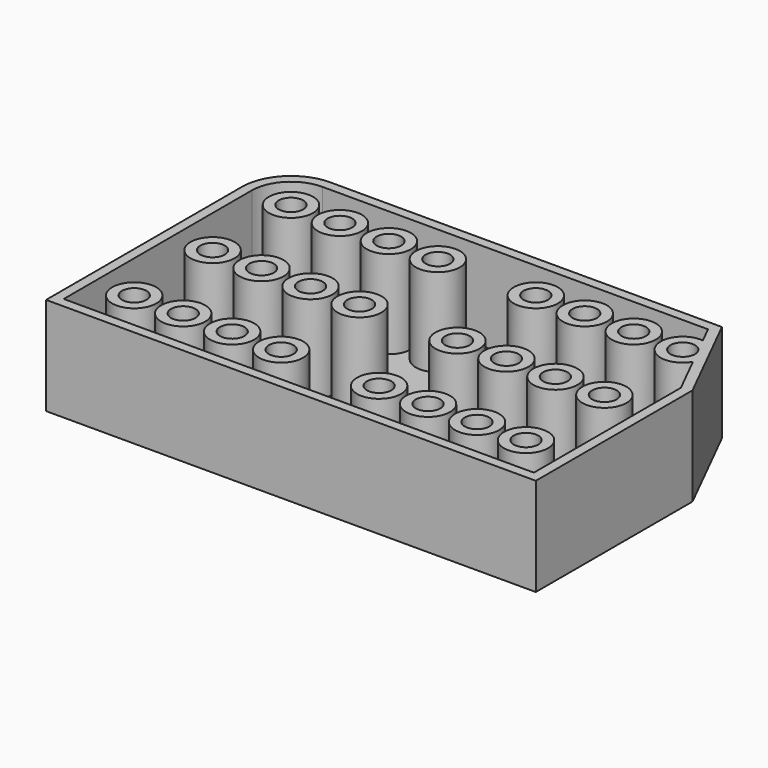
from build123d import *

# Parameters (mm, degrees)
F1_DEPTH = 25.4
F3_R     = 3.175
F4_DEPTH = 25.4
F5_T     = -2.54


with BuildPart() as f1:
    # F0 (on Top) → F1 (new body)
    with BuildSketch(Plane.XY):
        with BuildLine():
            Line((50.8, 38.1), (-50.8, 38.1))
            ThreePointArc((-50.8, 38.1), (-59.780256, 34.380256), (-63.5, 25.4))
            Line((-63.5, 25.4), (-63.5, -38.1))
            Line((-63.5, -38.1), (63.5, -38.1))
            Line((63.5, -38.1), (63.5, 12.7))
            Line((63.5, 12.7), (50.8, 38.1))
        make_face()
    extrude(amount=F1_DEPTH)

    # F3 (on face) → F4 (cut)
    with BuildSketch(Plane.XY.offset(25.4)):
        with Locations((-50.8, 25.4)):
            Circle(F3_R)
        with Locations((-50.8, 0)):
            Circle(F3_R)
        with Locations((-50.8, -25.4)):
            Circle(F3_R)
        with Locations((-38.1, 25.4)):
            Circle(F3_R)
        with Locations((-38.1, 0)):
            Circle(F3_R)
        with Locations((-38.1, -25.4)):
            Circle(F3_R)
        with Locations((-25.4, 25.4)):
            Circle(F3_R)
        with Locations((-25.4, 0)):
            Circle(F3_R)
        with Locations((-25.4, -25.4)):
            Circle(F3_R)
        with Locations((-12.7, 25.4)):
            Circle(F3_R)
        with Locations((-12.7, 0)):
            Circle(F3_R)
        with Locations((-12.7, -25.4)):
            Circle(F3_R)
        with Locations((50.8, 25.4)):
            Circle(F3_R)
        with Locations((38.1, 25.4)):
            Circle(F3_R)
        with Locations((25.4, 25.4)):
            Circle(F3_R)
        with Locations((12.7, 25.4)):
            Circle(F3_R)
        with Locations((12.7, 0)):
            Circle(F3_R)
        with Locations((25.4, 0)):
            Circle(F3_R)
        with Locations((38.1, 0)):
            Circle(F3_R)
        with Locations((50.8, -25.4)):
            Circle(F3_R)
        with Locations((38.1, -25.4)):
            Circle(F3_R)
        with Locations((25.4, -25.4)):
            Circle(F3_R)
        with Locations((12.7, -25.4)):
            Circle(F3_R)
        with Locations((50.8, 0)):
            Circle(F3_R)
    extrude(amount=-F4_DEPTH, mode=Mode.SUBTRACT)

    # F5
    f5_openings = [f1.faces().sort_by_distance(p)[0] for p in [
        (-0.855292, -0.687975, 25.4),
    ]]
    offset(amount=F5_T, openings=f5_openings)


solid = f1.part
